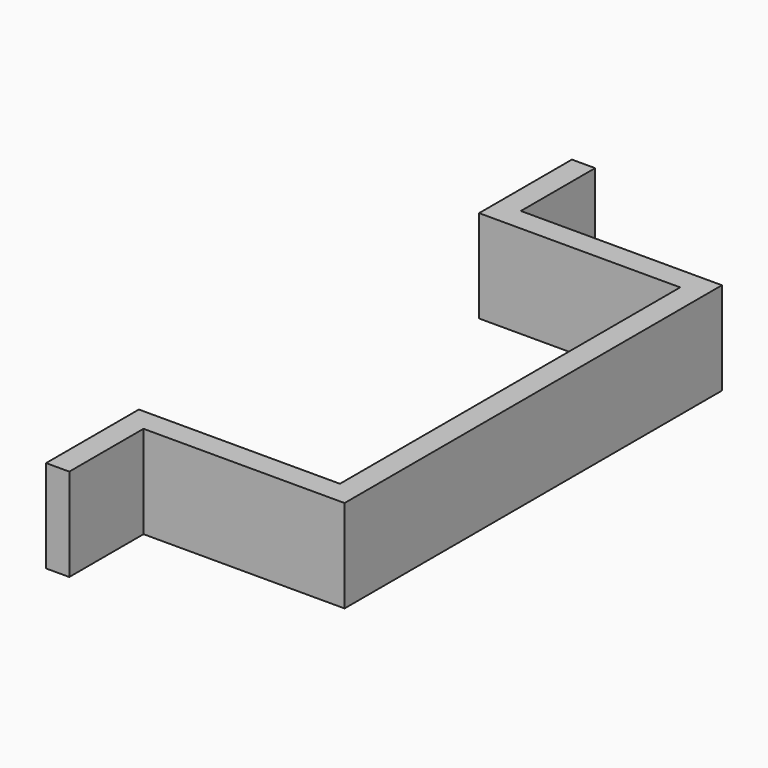
from build123d import *

# Parameters (mm, degrees)
F1_DEPTH = 15.24


with BuildPart() as f1:
    # F0 (on Top) → F1 (new body)
    with BuildSketch(Plane.XY):
        Polygon((1.905, -38.735), (1.905, -34.925), (1.905, 34.925), (1.905, 38.735), (-31.115, 38.735), (-31.115, 53.975), (-34.925, 53.975), (-34.925, 38.735), (-34.925, 34.925), (-1.905, 34.925), (-1.905, -34.925), (-34.925, -34.925), (-34.925, -38.735), (-34.925, -53.975), (-31.115, -53.975), (-31.115, -38.735), align=None)
    extrude(amount=F1_DEPTH)


solid = f1.part
